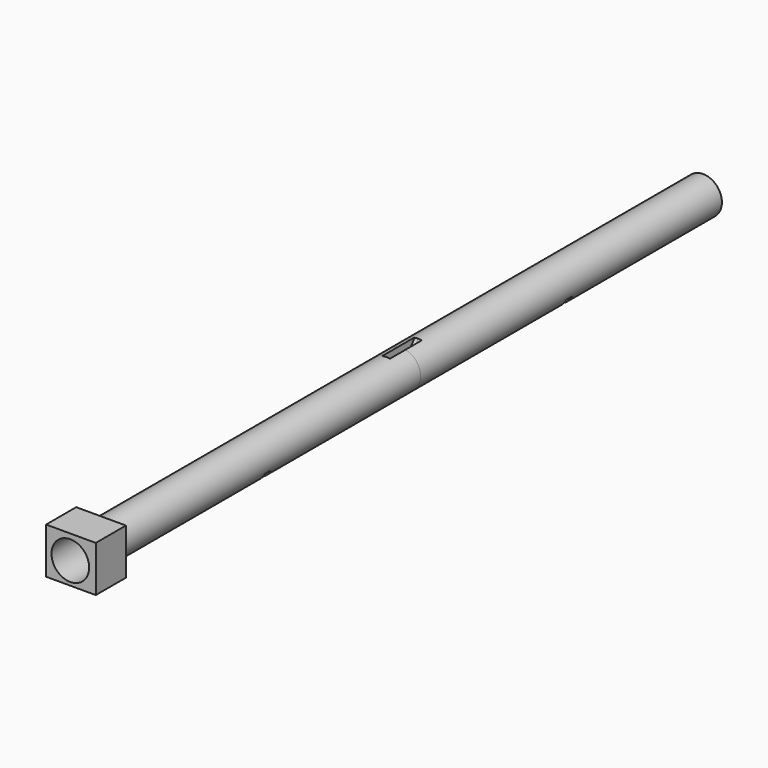
from build123d import *

# Parameters (mm, degrees)
F0_R          = 12.7
F1_DEPTH      = 254
F3_W          = 37.01931
F3_H          = 8.172032
F4_DEPTH      = 2.54
F4_DEPTH_BACK = 2.54
F7_DEPTH      = 2.54
F7_DEPTH_BACK = 2.54
F8_R          = 1.27
F9_DEPTH      = 8.89
F11_W         = 33.526458
F11_H         = 30.989028
F11_R         = 12.7
F12_DEPTH     = 25.4


with BuildPart() as f1:
    # F0 (on Front) → F1 (new body)
    with BuildSketch(Plane.XZ):
        Circle(F0_R)
    extrude(amount=F1_DEPTH)

    # F3 (on offset) → F4 (cut, two sides)
    with BuildSketch(Plane.XZ.offset(127)) as f4_sk:
        with Locations((0.839331, -9.819486)):
            Rectangle(F3_W, F3_H)
    extrude(amount=F4_DEPTH, mode=Mode.SUBTRACT)
    extrude(f4_sk.sketch, amount=-F4_DEPTH_BACK, mode=Mode.SUBTRACT)

    # F5: F1 across plane


with BuildPart() as f1_1:
    add(f1.part)
    add(f1.part.mirror(Plane.XZ))

    # F6 (on Right) → F7 (cut, two sides)
    with BuildSketch(Plane.YZ) as f7_sk:
        with BuildLine():
            Line((13.690605, 19.2024), (-13.335001, 19.2024))
            Line((-13.335001, 19.2024), (-13.335001, 13.8176))
            ThreePointArc((-13.335001, 13.8176), (-11.475129, 9.327472), (-6.985001, 7.4676))
            Line((-6.985001, 7.4676), (7.340605, 7.4676))
            ThreePointArc((7.340605, 7.4676), (11.830733, 9.327472), (13.690605, 13.8176))
            Line((13.690605, 13.8176), (13.690605, 19.2024))
        make_face()
    extrude(amount=F7_DEPTH, mode=Mode.SUBTRACT)
    extrude(f7_sk.sketch, amount=-F7_DEPTH_BACK, mode=Mode.SUBTRACT)

    # F8 (on face) → F9 (cut)
    with BuildSketch(Plane.XY.offset(7.4676)):
        Circle(F8_R)
    extrude(amount=-F9_DEPTH, mode=Mode.SUBTRACT)


with BuildPart() as f12:
    # F11 (on face) → F12 (new body)
    with BuildSketch(Plane.XZ.offset(254)):
        with Locations((0.417737, 0.595393)):
            Rectangle(F11_W, F11_H)
        Circle(F11_R, mode=Mode.SUBTRACT)
    extrude(amount=F12_DEPTH)


solid = Compound([f1_1.part, f12.part])
